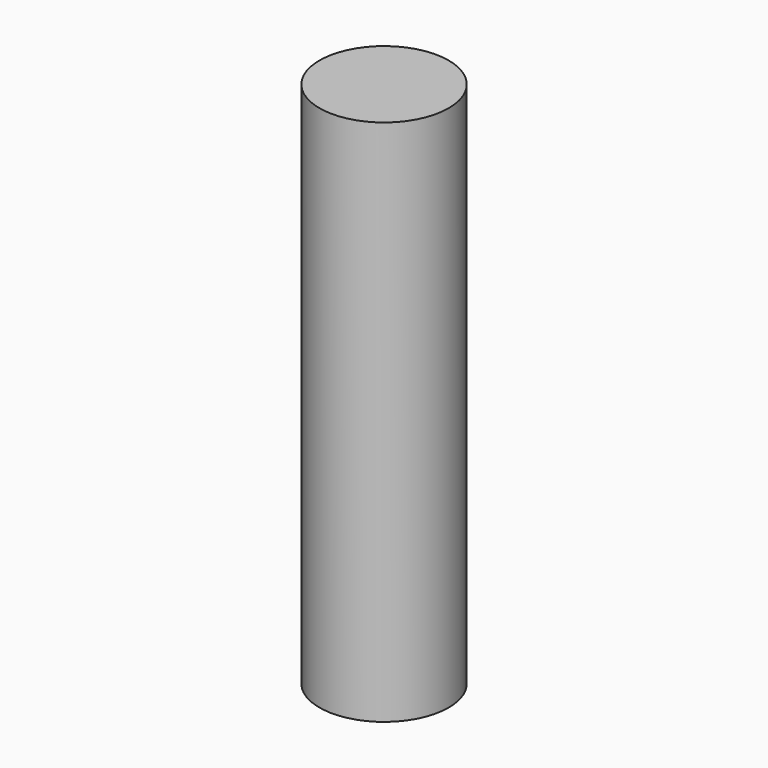
from build123d import *

# Parameters (mm, degrees)
CYLINDER_R     = 2.45
CYLINDER_DEPTH = 20


with BuildPart() as part:
    # Cylinder → Cylinder (join)
    with BuildSketch(Plane.XY):
        Circle(CYLINDER_R)
    extrude(amount=CYLINDER_DEPTH)


solid = part.part
